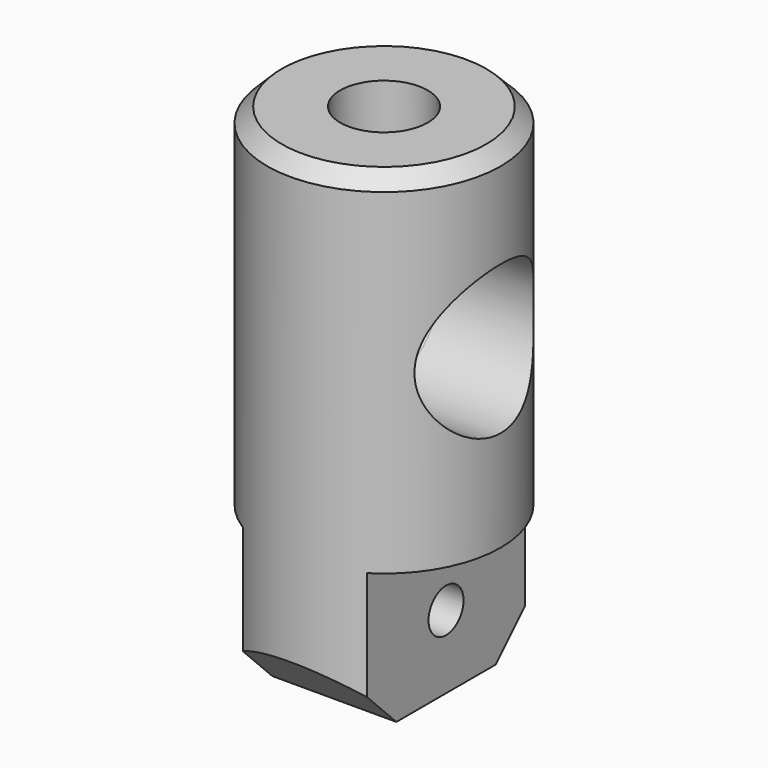
from build123d import *

# Parameters (mm, degrees)
F0_R      = 8
F1_DEPTH  = 34
F2_R      = 5.1
F2_R_2    = 1.5
F3_DEPTH  = 50
F4_SIZE   = 1
F6_DEPTH  = 10
F8_DEPTH  = 25
F9_R      = 3.3
F10_DEPTH = 12
F12_R     = 3
F13_DEPTH = 12


with BuildPart() as f1:
    # F0 (on Top) → F1 (new body)
    with BuildSketch(Plane.XY):
        Circle(F0_R)
    extrude(amount=F1_DEPTH)

    # F2 (on Right) → F3 (cut, symmetric)
    with BuildSketch(Plane.YZ):
        with Locations((0, 22)):
            Circle(F2_R)
        with Locations((0, 5)):
            Circle(F2_R_2)
    extrude(amount=F3_DEPTH, both=True, mode=Mode.SUBTRACT)

    # F4
    f4_edges = [f1.edges().sort_by_distance(p)[0] for p in [
        (-8, 0, 34),
    ]]
    chamfer(f4_edges, length=F4_SIZE)

    # F5 (on Top) → F6 (cut)
    with BuildSketch(Plane.XY):
        Polygon((13.330229, -8.80704), (13.330229, 8.80704), (4.25, 8.80704), (4.25, 0), (4.25, -8.80704), align=None)
        Polygon((-4.25, 8.80704), (-13.330229, 8.80704), (-13.330229, -8.80704), (-4.25, -8.80704), (-4.25, 0), align=None)
    extrude(amount=F6_DEPTH, mode=Mode.SUBTRACT)

    # F7 (on face) → F8 (cut)
    with BuildSketch(Plane(origin=(-4.25, 0, 0), x_dir=(0, -1, 0), z_dir=(-1, 0, 0))):
        Polygon((-9.396474, 0), (-4.25, 0), (-9.098946, 4.848946), align=None)
        Polygon((8.720067, 4.470067), (4.25, 0), (10.144616, 0), align=None)
    extrude(amount=-F8_DEPTH, mode=Mode.SUBTRACT)

    # F9 (on Top) → F10 (cut)
    with BuildSketch(Plane.XY):
        Circle(F9_R)
    extrude(amount=-F10_DEPTH, mode=Mode.SUBTRACT)

    # F12 (on face) → F13 (cut)
    with BuildSketch(Plane.XY.offset(34)):
        Circle(F12_R)
    extrude(amount=-F13_DEPTH, mode=Mode.SUBTRACT)


solid = f1.part
